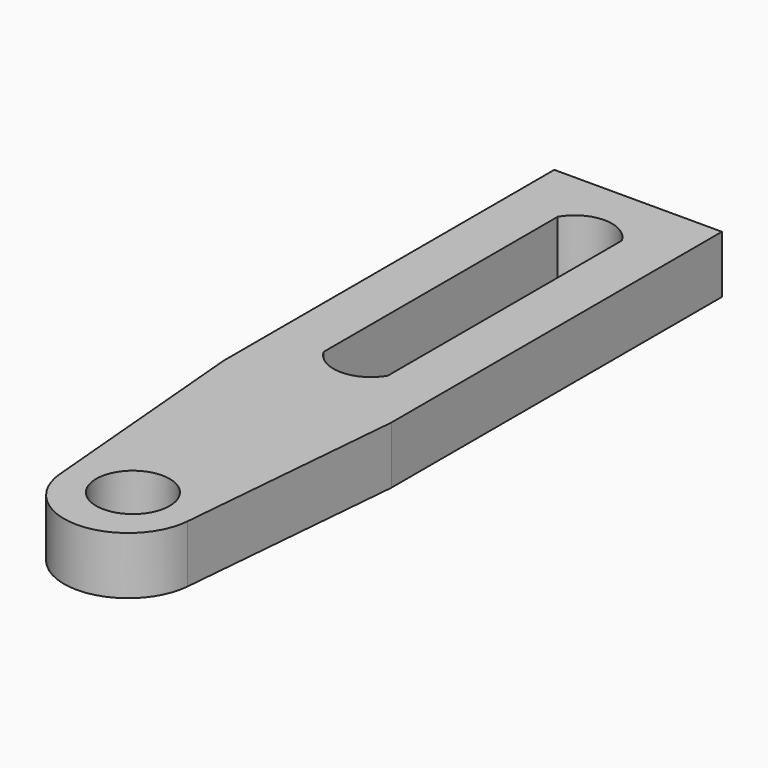
from build123d import *

# Parameters (mm, degrees)
F0_W     = 7.3
F0_H     = 18
F0_R     = 1.6
F1_DEPTH = 2.5


with BuildPart() as f1:
    # F0 (on Top) → F1 (new body)
    with BuildSketch(Plane.XY):
        Rectangle(F0_W, F0_H)
        with BuildLine():
            ThreePointArc((-1.4, 6.375), (0, 7.174943), (1.4, 6.375))
            Line((1.4, 6.375), (1.4, -6.375))
            ThreePointArc((1.4, -6.375), (0, -7.174943), (-1.4, -6.375))
            Line((-1.4, -6.375), (-1.4, 6.375))
        make_face(mode=Mode.SUBTRACT)
        with BuildLine():
            Line((2.782129, -19), (3.65, -9))
            Line((3.65, -9), (-3.65, -9))
            Line((-3.65, -9), (-2.782129, -19))
            ThreePointArc((-2.782129, -19), (0, -21.551134), (2.782129, -19))
        make_face()
        with Locations((0, -18.5)):
            Circle(F0_R, mode=Mode.SUBTRACT)
    extrude(amount=F1_DEPTH)


solid = f1.part
